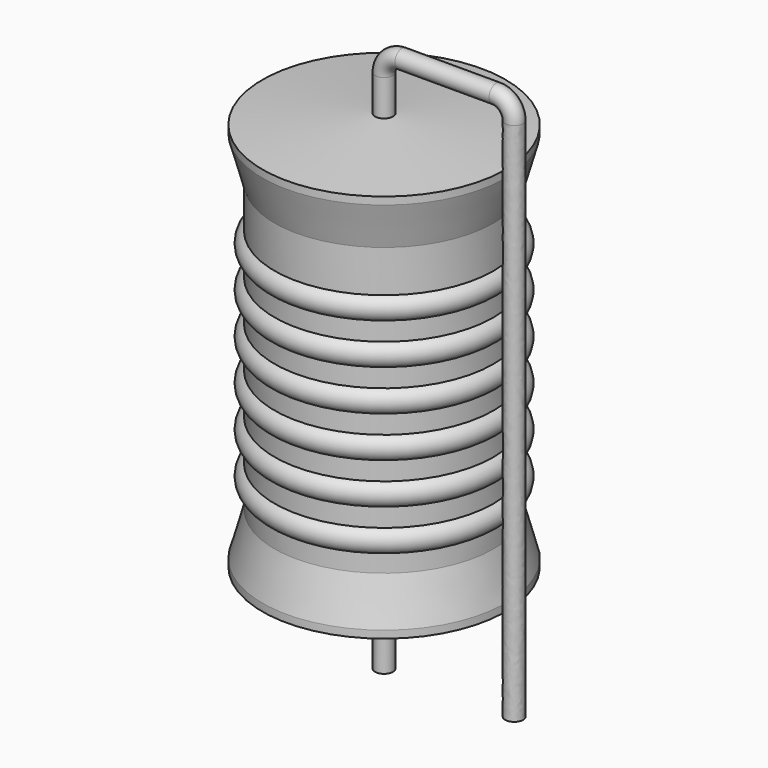
from build123d import *

# Parameters (mm, degrees)
SKETCH_R = 0.35


with BuildPart() as revolution:
    # Sketch002 → Revolution (revolve)
    with BuildSketch(Plane.XZ):
        Polygon((0, 0.1), (0, 16.1), (0.2625, 16.1), (4.75, 15.7), (4.75, 15.4075), (4.275, 13.7), (4.275, 2.5), (4.75, 0.7925), (4.75, 0.5), (0.2625, 0.1), align=None)
    revolve(axis=Axis((0, 0, 0), (0, 0, 1)))


with BuildPart() as sweep_body:
    # Sweep: sweep along a path in Sketch001
    with BuildLine(Plane.XZ) as sweep_path:
        Line((0, -3), (0, 17.5))
        ThreePointArc((0, 17.5), (0.205023, 17.994972), (0.699993, 18.2))
        Line((0.699993, 18.2), (4.38, 18.2))
        ThreePointArc((4.38, 18.2), (4.874975, 17.994975), (5.08, 17.5))
        Line((5.08, 17.5), (5.08, -3))
    # Sketch → Sweep (sweep)
    with BuildSketch(Plane.XY.offset(-2)):
        Circle(SKETCH_R)
    sweep(path=sweep_path.line)


with BuildPart() as obj1:
    # Sketch003 → Revolution001 (revolve)
    with BuildSketch(Plane.XZ):
        with BuildLine():
            Line((3.8, 12.75), (3.8, 2.5))
            Line((3.8, 2.5), (4.085, 2.5))
            Line((4.085, 2.5), (4.085, 3.15))
            ThreePointArc((4.085, 3.15), (4.56, 3.625), (4.085, 4.1))
            Line((4.085, 4.1), (4.085, 4.75))
            ThreePointArc((4.085, 4.75), (4.56, 5.225), (4.085, 5.7))
            Line((4.085, 5.7), (4.085, 6.35))
            ThreePointArc((4.085, 6.35), (4.56, 6.825), (4.085, 7.3))
            Line((4.085, 7.3), (4.085, 7.95))
            ThreePointArc((4.085, 7.95), (4.56, 8.425), (4.085, 8.9))
            Line((4.085, 8.9), (4.085, 9.55))
            ThreePointArc((4.085, 9.55), (4.56, 10.025), (4.085, 10.5))
            Line((4.085, 10.5), (4.085, 11.15))
            ThreePointArc((4.085, 11.15), (4.56, 11.625), (4.085, 12.1))
            Line((4.085, 12.75), (4.085, 12.1))
            Line((3.8, 12.75), (4.085, 12.75))
        make_face()
    revolve(axis=Axis((0, 0, 0), (0, 0, 1)))

    # obj1: union Revolution, Sweep body
    add(revolution.part)
    add(sweep_body.part)


solid = obj1.part
